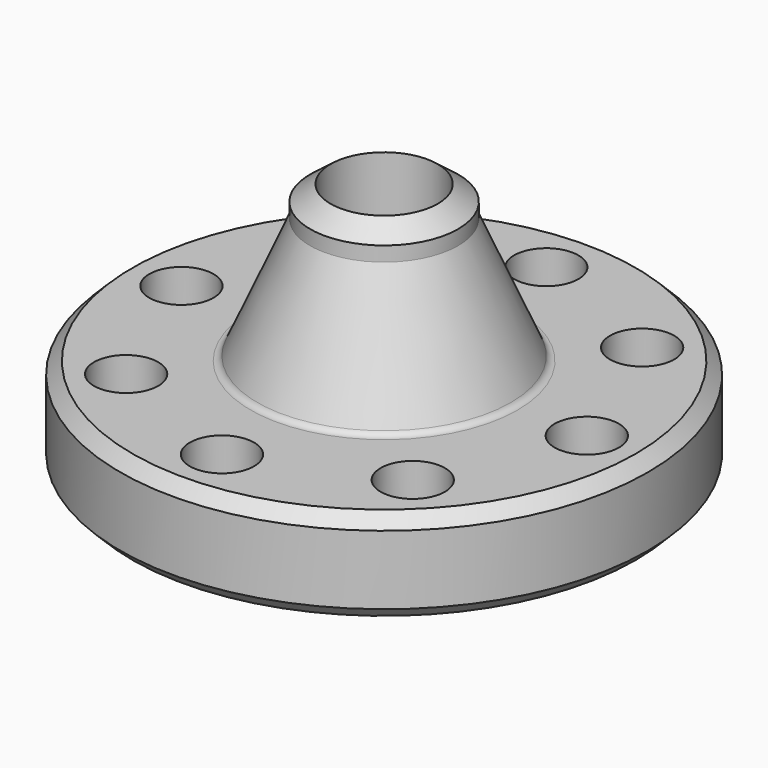
from build123d import *

# Parameters (mm, degrees)
F3_D    = 26.19502
F4_R    = 3
F5_SIZE = 5
F6_SIZE = 5


with BuildPart() as f1:
    # F0 (on Front) → F1 (revolve)
    with BuildSketch(Plane.XZ):
        Polygon((21.85, 109.5), (21.85, 0), (41.672, 0), (45.0412688537, 7.9375), (50.2088311463, 7.9375), (53.5781, 0), (62.0001, 0), (62.0001, 8), (107.5, 8), (107.5, 46.1), (52.4, 46.1), (30.15, 97.1311859998), (30.15, 103.1311859998), align=None)
    revolve(axis=Axis((0, 0, 78.9197534323), (0, 0, 1)))

    # F3 (through all)
    with Locations(Plane.XY.offset(46.1)):
        with Locations((0, 82.55), (58.3716647869, 58.3716647869), (82.55, 0), (58.3716647869, -58.3716647869), (0, -82.55), (-58.3716647869, -58.3716647869), (-82.55, 0), (-58.3716647869, 58.3716647869)):
            Hole(F3_D / 2)

    # F4
    f4_edges = [f1.edges().sort_by_distance(p)[0] for p in [
        (-52.4, 0, 46.1),
    ]]
    fillet(f4_edges, radius=F4_R)

    # F5
    f5_edges = [f1.edges().sort_by_distance(p)[0] for p in [
        (-107.5, 0, 8),
    ]]
    chamfer(f5_edges, length=F5_SIZE)

    # F6
    f6_edges = [f1.edges().sort_by_distance(p)[0] for p in [
        (-107.5, 0, 46.1),
    ]]
    chamfer(f6_edges, length=F6_SIZE)


solid = f1.part
